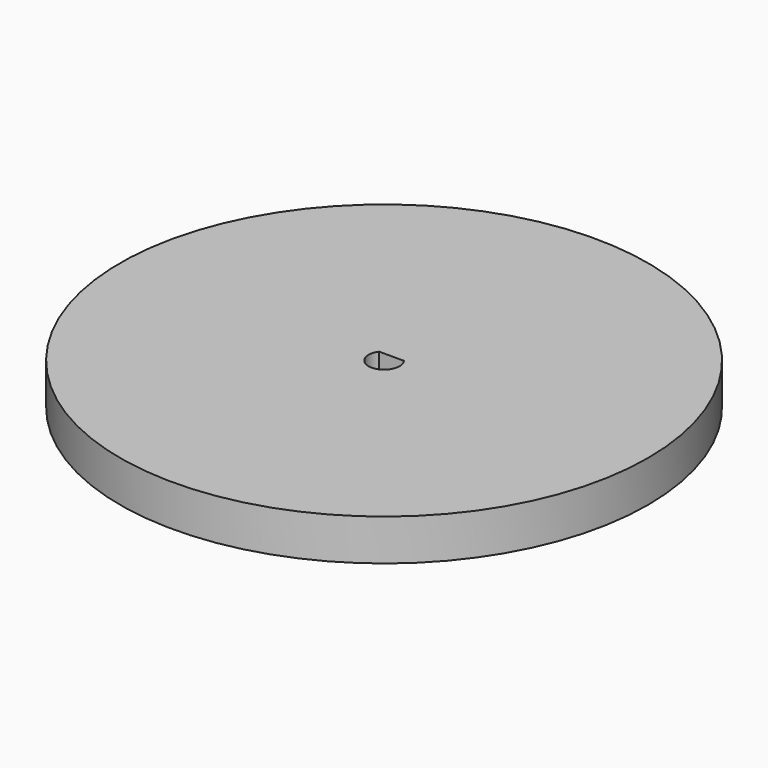
from build123d import *

# Parameters (mm, degrees)
SKETCH_R  = 63.913216
PAD_DEPTH = 10


with BuildPart() as part:
    # Sketch → Pad (new body)
    with BuildSketch(Plane.XY):
        with Locations((-1.08, -2.5)):
            Circle(SKETCH_R)
        with BuildLine():
            ThreePointArc((-4.08, -0.25), (-1.08, -6.25), (1.92, -0.25))
            Line((-4.08, -0.25), (1.92, -0.25))
        make_face(mode=Mode.SUBTRACT)
    extrude(amount=PAD_DEPTH)


solid = part.part
